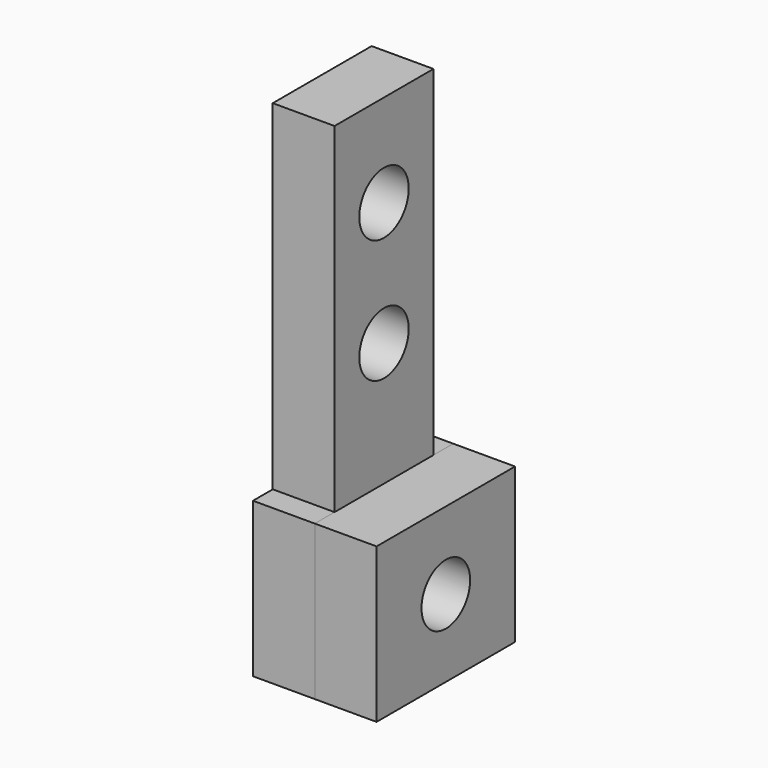
from build123d import *

# Parameters (mm, degrees)
OBJ1     = 10
OBJ2     = 30
OBJ3     = 2.5
EXTRUSION1_DEPTH = 5
OBJ4     = 5
OBJ5     = 10
EXTRUSION2_DEPTH = 10
OBJ6     = 5
OBJ7     = 12.5
EXTRUSION3_DEPTH = 2
OBJ8     = 5
OBJ9     = 12.5
EXTRUSION4_DEPTH = 2
OBJ10     = 12.5
OBJ11     = 14
EXTRUSION6_DEPTH = 5
OBJ12       = 2.4585
HOLE1_DEPTH      = 9.477216


with BuildPart() as extrusion1:
    with BuildSketch(Plane.YZ):
        with Locations((5, -15)):
            Rectangle(OBJ1, OBJ2)
        with Locations((5, -7.5)):
            Circle(OBJ3, mode=Mode.SUBTRACT)
        with Locations((5, -17.5)):
            Circle(OBJ3, mode=Mode.SUBTRACT)
    extrude(amount=EXTRUSION1_DEPTH)


with BuildPart() as extrusion2:
    with BuildSketch(Plane(origin=(0, 0, -30), x_dir=(-1, 0, 0), z_dir=(0, 0, -1))):
        with Locations((-2.5, 5)):
            Rectangle(OBJ4, OBJ5)
    extrude(amount=EXTRUSION2_DEPTH)


with BuildPart() as extrusion3:
    with BuildSketch(Plane(origin=(0, 10, 0), x_dir=(1, 0, 0), z_dir=(0, 1, 0))):
        with Locations((2.5, 33.75)):
            Rectangle(OBJ6, OBJ7)
    extrude(amount=EXTRUSION3_DEPTH)


with BuildPart() as extrusion4:
    with BuildSketch(Plane.XZ):
        with Locations((2.5, -33.75)):
            Rectangle(OBJ8, OBJ9)
    extrude(amount=EXTRUSION4_DEPTH)


with BuildPart() as hole1:
    with BuildSketch(Plane(origin=(5, 0, 0), x_dir=(0, 0, -1), z_dir=(1, 0, 0))):
        with Locations((33.75, 5)):
            Rectangle(OBJ10, OBJ11)
    extrude(amount=EXTRUSION6_DEPTH)

    with BuildSketch(Plane(origin=(10, 0, 0), x_dir=(0, 0, -1), z_dir=(1, 0, 0))):
        with Locations((33.75, 5)):
            Circle(OBJ12)
    extrude(amount=-HOLE1_DEPTH, mode=Mode.SUBTRACT)


solid = Compound([extrusion1.part, extrusion2.part, extrusion3.part, extrusion4.part, hole1.part])
